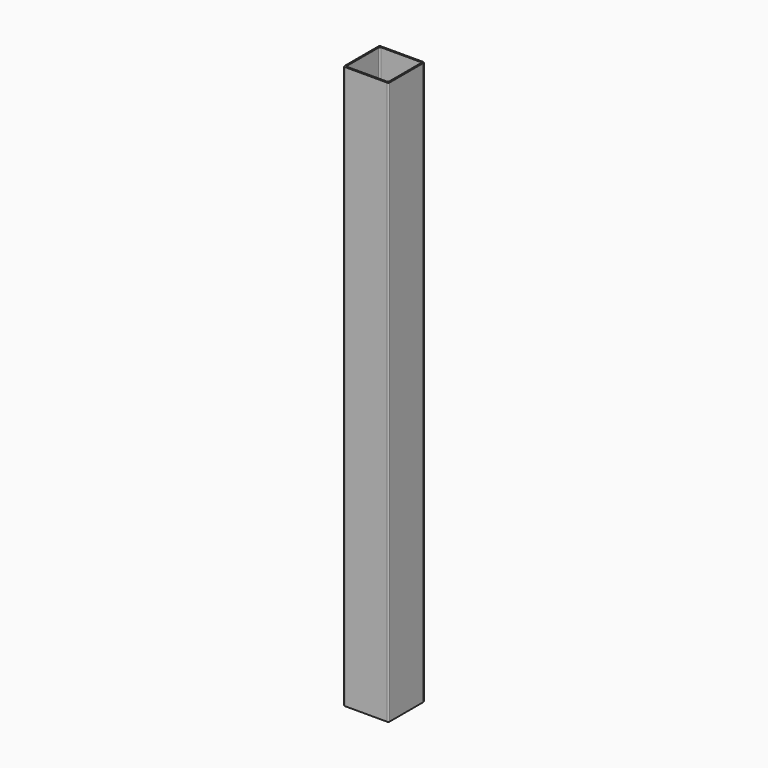
from build123d import *

# Parameters (mm, degrees)
F0_W     = 50.8
F0_H     = 50.8
F0_W_2   = 47.625
F0_H_2   = 47.625
F1_DEPTH = 635
F2_R     = 1.5875
F3_R     = 1.5875


with BuildPart() as f1:
    # F0 (on Top) → F1 (new body)
    with BuildSketch(Plane.XY):
        with Locations((-12.7, -11.264074)):
            Rectangle(F0_W, F0_H)
        with Locations((-12.7, -11.264074)):
            Rectangle(F0_W_2, F0_H_2, mode=Mode.SUBTRACT)
    extrude(amount=-F1_DEPTH)

    # F2
    f2_edges = [f1.edges().sort_by_distance(p)[0] for p in [
        (-38.1, -36.664074, -317.5),
        (12.7, -36.664074, -317.5),
        (12.7, 14.135926, -317.5),
        (-38.1, 14.135926, -317.5),
    ]]
    fillet(f2_edges, radius=F2_R)

    # F3
    f3_edges = [f1.edges().sort_by_distance(p)[0] for p in [
        (-36.5125, 12.548426, -317.5),
        (11.1125, 12.548426, -317.5),
        (11.1125, -35.076574, -317.5),
        (-36.5125, -35.076574, -317.5),
    ]]
    fillet(f3_edges, radius=F3_R)


solid = f1.part
